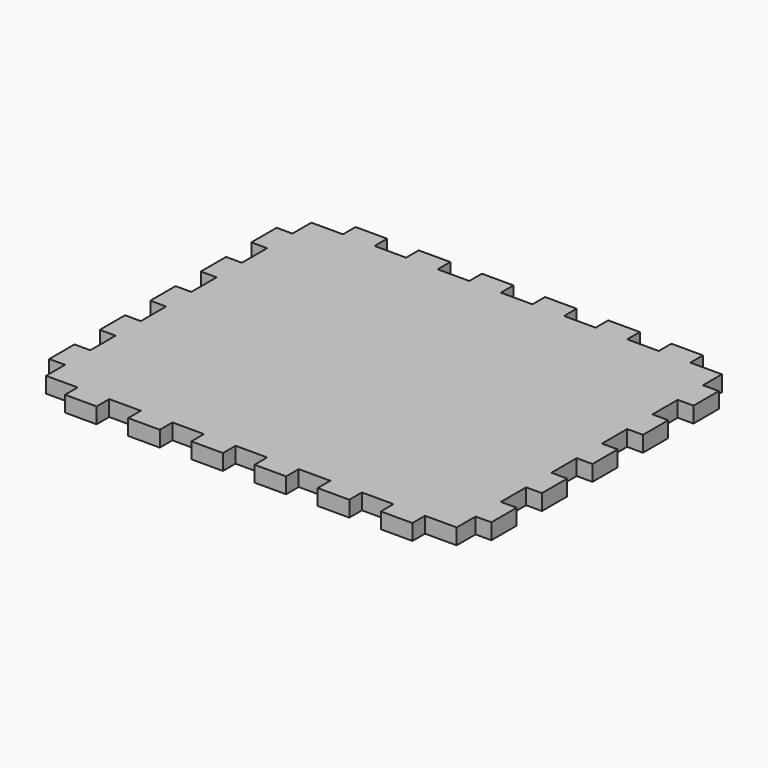
from build123d import *

# Parameters (mm, degrees)
F1_DEPTH = 6.35


with BuildPart() as f1:
    # F0 (on Top) → F1 (new body)
    with BuildSketch(Plane.XY):
        Polygon((31.75, 0), (19.05, 0), (19.05, -6.35), (6.35, -6.35), (6.35, -15.875), (0, -15.875), (0, -28.575), (6.35, -28.575), (6.35, -41.275), (0, -41.275), (0, -53.975), (6.35, -53.975), (6.35, -66.675), (0, -66.675), (0, -79.375), (6.35, -79.375), (6.35, -92.075), (0, -92.075), (0, -104.775), (6.35, -104.775), (6.35, -117.475), (0, -117.475), (0, -130.175), (6.35, -130.175), (6.35, -139.7), (19.05, -139.7), (19.05, -146.05), (31.75, -146.05), (31.75, -139.7), (44.45, -139.7), (44.45, -146.05), (57.15, -146.05), (57.15, -139.7), (69.85, -139.7), (69.85, -146.05), (82.55, -146.05), (82.55, -139.7), (95.25, -139.7), (95.25, -146.05), (107.95, -146.05), (107.95, -139.7), (120.65, -139.7), (120.65, -146.05), (133.35, -146.05), (133.35, -139.7), (146.05, -139.7), (146.05, -146.05), (158.75, -146.05), (158.75, -139.7), (171.45, -139.7), (171.45, -130.175), (177.8, -130.175), (177.8, -117.475), (171.45, -117.475), (171.45, -104.775), (177.8, -104.775), (177.8, -92.075), (171.45, -92.075), (171.45, -79.375), (177.8, -79.375), (177.8, -66.675), (171.45, -66.675), (171.45, -53.975), (177.8, -53.975), (177.8, -41.275), (171.45, -41.275), (171.45, -28.575), (177.8, -28.575), (177.8, -15.875), (171.45, -15.875), (171.45, -6.35), (158.75, -6.35), (158.75, 0), (146.05, 0), (146.05, -6.35), (133.35, -6.35), (133.35, 0), (120.65, 0), (120.65, -6.35), (107.95, -6.35), (107.95, 0), (95.25, 0), (95.25, -6.35), (82.55, -6.35), (82.55, 0), (69.85, 0), (69.85, -6.35), (57.15, -6.35), (57.15, 0), (44.45, 0), (44.45, -6.35), (31.75, -6.35), align=None)
    extrude(amount=F1_DEPTH)


solid = f1.part
